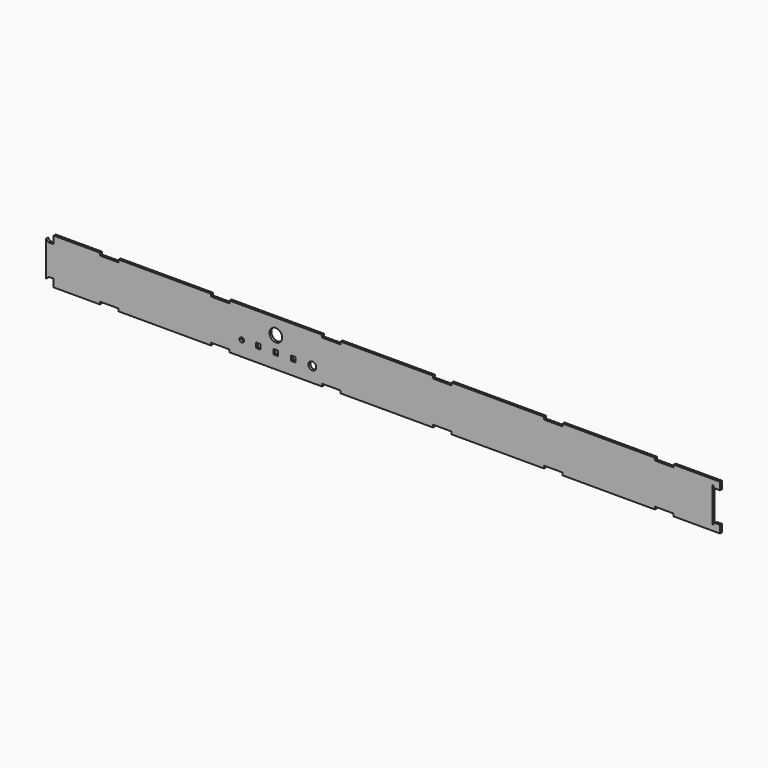
from build123d import *

# Parameters (mm, degrees)
F0_W     = 834.740075
F0_H     = 50.8
F1_DEPTH = 3.048
F3_W     = 57.9247
F3_H     = 3.1496
F3_W_2   = 115.8494
F4_DEPTH = 3.048
F6_DEPTH = 3.048
F7_DEPTH = 3.049
F8_W     = 6.096
F8_H     = 6.096
F8_R     = 2.8702
F8_R_2   = 4.953
F8_R_3   = 7.9375
F9_DEPTH = 3.049


with BuildPart() as f1:
    # F0 (on Front) → F1 (new body)
    with BuildSketch(Plane.XZ):
        with Locations((417.370037, 25.4)):
            Rectangle(F0_W, F0_H)
    extrude(amount=F1_DEPTH)

    # F3 (on face) → F4 (join)
    with BuildSketch(Plane.XZ.offset(3.048)):
        with Locations((28.96235, 52.3748)):
            Rectangle(F3_W, F3_H)
        with Locations((139.123346, 52.3748)):
            Rectangle(F3_W_2, F3_H)
        with Locations((28.96235, -1.5748)):
            Rectangle(F3_W, F3_H)
        with Locations((139.123346, -1.5748)):
            Rectangle(F3_W_2, F3_H)
        with Locations((278.246692, 52.3748)):
            Rectangle(F3_W_2, F3_H)
        with Locations((278.246692, -1.5748)):
            Rectangle(F3_W_2, F3_H)
        with Locations((417.370038, 52.3748)):
            Rectangle(F3_W_2, F3_H)
        with Locations((417.370038, -1.5748)):
            Rectangle(F3_W_2, F3_H)
        with Locations((556.493384, 52.3748)):
            Rectangle(F3_W_2, F3_H)
        with Locations((556.493384, -1.5748)):
            Rectangle(F3_W_2, F3_H)
        with Locations((695.61673, 52.3748)):
            Rectangle(F3_W_2, F3_H)
        with Locations((695.61673, -1.5748)):
            Rectangle(F3_W_2, F3_H)
        with Locations((805.777725, 52.3748)):
            Rectangle(F3_W, F3_H)
        with Locations((805.777725, -1.5748)):
            Rectangle(F3_W, F3_H)
    extrude(amount=-F4_DEPTH)

    # F5 (on face) → F6 (join)
    with BuildSketch(Plane.XZ.offset(3.048)):
        Polygon((-6.35, 6.35), (0, 6.35), (0, 44.45), (-6.35, 44.45), (-9.525, 47.625), (-9.525, 3.175), align=None)
    extrude(amount=-F6_DEPTH)

    # F5 (on face) → F7 (cut, through all)
    with BuildSketch(Plane.XZ.offset(3.048)):
        Polygon((828.390075, 6.35), (834.740075, 6.35), (834.740075, 44.45), (828.390075, 44.45), (825.215075, 47.625), (825.215075, 3.175), align=None)
    extrude(amount=-F7_DEPTH, mode=Mode.SUBTRACT)

    # F8 (on face) → F9 (cut, through all)
    with BuildSketch(Plane.XZ.offset(3.048)):
        with Locations((256.326492, 15.5194)):
            Rectangle(F8_W, F8_H)
        with Locations((278.246692, 15.5194)):
            Rectangle(F8_W, F8_H)
        with Locations((300.166892, 15.5194)):
            Rectangle(F8_W, F8_H)
        with Locations((235.701692, 15.5194)):
            Circle(F8_R)
        with Locations((323.966692, 15.5194)):
            Circle(F8_R_2)
        with Locations((278.246692, 34.5694)):
            Circle(F8_R_3)
    extrude(amount=-F9_DEPTH, mode=Mode.SUBTRACT)


solid = f1.part
